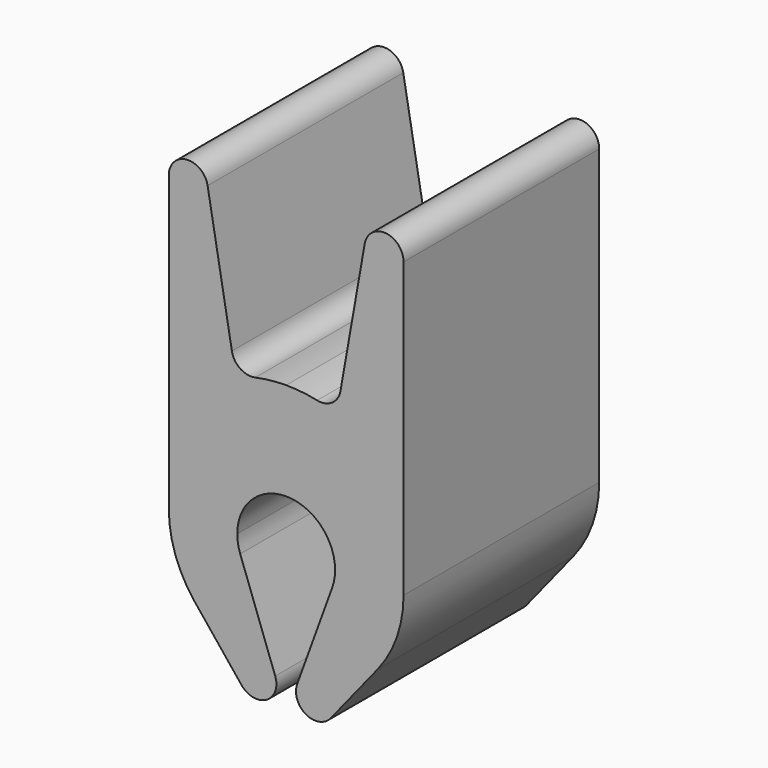
from build123d import *

# Parameters (mm, degrees)
F1_DEPTH = 25


with BuildPart() as f1:
    # F0 (on Front) → F1 (new body)
    with BuildSketch(Plane.XZ):
        with BuildLine():
            ThreePointArc((0, 5), (3.535534, 3.535534), (5, 0))
            ThreePointArc((5, 0), (4.924039, -0.868241), (4.698463, -1.710101))
            Line((4.698463, -1.710101), (1.120615, -11.540158))
            ThreePointArc((1.120615, -11.540158), (2.017935, -13.966481), (4.558306, -13.477866))
            Line((4.558306, -13.477866), (9.349836, -7.522006))
            ThreePointArc((9.349836, -7.522006), (11.318084, -3.987604), (12, 0))
            Line((12, 0), (12, 30))
            ThreePointArc((12, 30), (10.174311, 31.992389), (8.030384, 30.347296))
            Line((8.030384, 30.347296), (5.548481, 16.271721))
            ThreePointArc((5.548481, 16.271721), (4.695037, 14.959451), (3.157822, 14.663838))
            ThreePointArc((3.157822, 14.663838), (1.587832, 14.915723), (0, 15))
            Line((0, 15), (0, 5))
        make_face()
    extrude(amount=F1_DEPTH)

    # F2: F1 across face


with BuildPart() as f1_1:
    add(f1.part)
    add(f1.part.mirror(Plane(origin=(0, -12.5, 10), x_dir=(0, -1, 0), z_dir=(-1, 0, 0))))


solid = f1_1.part
